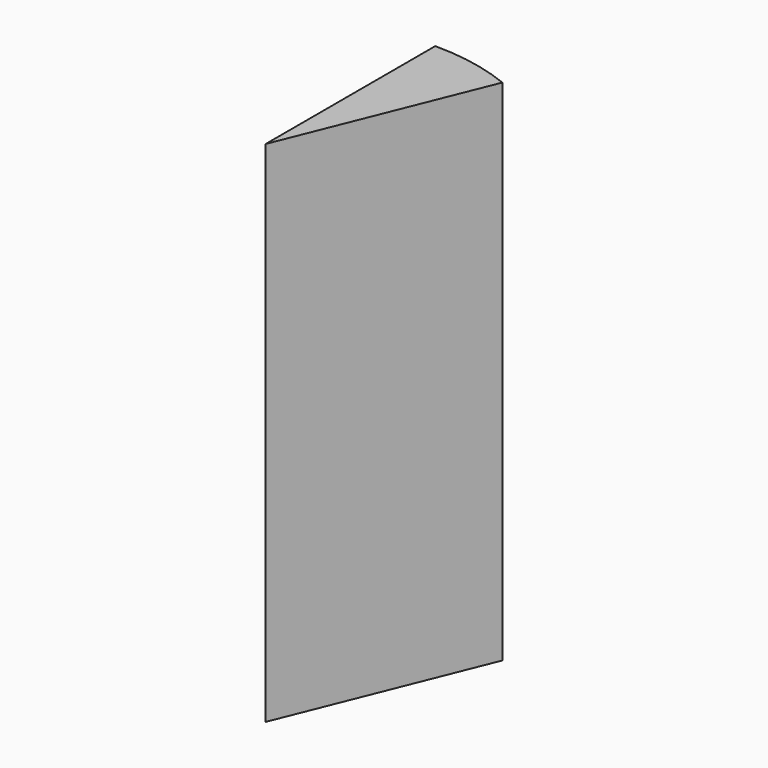
from build123d import *

# Parameters (mm, degrees)
F2_DEPTH = 304.8


with BuildPart() as f2:
    # F1 (on Top) → F2 (new body)
    with BuildSketch(Plane.XY):
        with BuildLine():
            Line((0, 127), (0, 0))
            Line((0, 0), (47.575037, 117.75235))
            ThreePointArc((47.575037, 117.75235), (24.232742, 124.666652), (0, 127))
        make_face()
        with BuildLine():
            Line((0, 127), (0, 0))
            Line((0, 0), (47.575037, 117.75235))
            ThreePointArc((47.575037, 117.75235), (24.232742, 124.666652), (0, 127))
        make_face()
    extrude(amount=F2_DEPTH)


solid = f2.part
